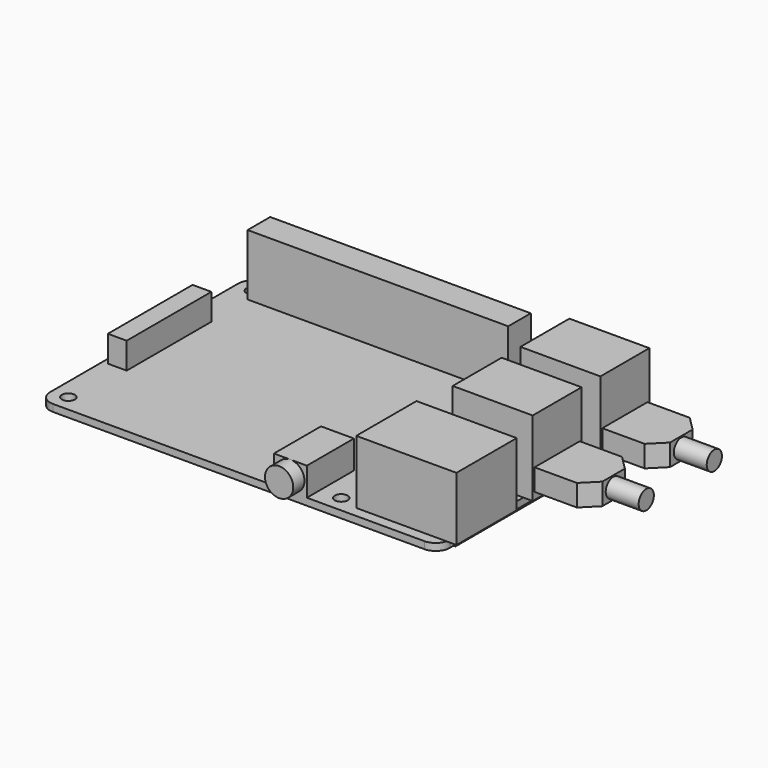
from build123d import *

# Parameters (mm, degrees)
PAD_DEPTH    = 1.5
SKETCH001_R  = 1.375
POCKET_DEPTH = 1.501
SKETCH002_W  = 17
SKETCH002_H  = 13
PAD001_DEPTH = 16
SKETCH003_W  = 21.3
SKETCH003_H  = 16
PAD002_DEPTH = 13.5
SKETCH004_W  = 81
SKETCH004_H  = 42
PAD003_DEPTH = 2
SKETCH005_W  = 55.4
SKETCH005_H  = 6
PAD004_DEPTH = 13
SKETCH006_W  = 7
SKETCH006_H  = 12.5
PAD005_DEPTH = 6
SKETCH007_R  = 3
PAD006_DEPTH = 3
SKETCH008_W  = 4
SKETCH008_H  = 22.5
PAD007_DEPTH = 5.6
SKETCH009_W  = 12
SKETCH009_H  = 4.6
PAD008_DEPTH = 12
CHAMFER_SIZE = 3
SKETCH010_R  = 2.017401
PAD009_DEPTH = 7


with BuildPart() as part:
    # Sketch → Pad (new body)
    with BuildSketch(Plane.XY):
        with BuildLine():
            Line((-39.5, 28), (39.5, 28))
            ThreePointArc((42.5, 25), (41.62132, 27.12132), (39.5, 28))
            Line((42.5, 25), (42.5, -25))
            ThreePointArc((39.5, -28), (41.62132, -27.12132), (42.5, -25))
            Line((39.5, -28), (-39.5, -28))
            ThreePointArc((-42.5, -25), (-41.62132, -27.12132), (-39.5, -28))
            Line((-42.5, -25), (-42.5, 25))
            ThreePointArc((-39.5, 28), (-41.62132, 27.12132), (-42.5, 25))
        make_face()
    extrude(amount=-PAD_DEPTH)

    # Sketch001 (on Face9 of Pad) → Pocket (cut, through all)
    with BuildSketch(Plane.XY):
        with Locations((-39, 24.5)):
            Circle(SKETCH001_R)
        with Locations((19, 24.5)):
            Circle(SKETCH001_R)
        with Locations((19, -24.5)):
            Circle(SKETCH001_R)
        with Locations((-39, -24.5)):
            Circle(SKETCH001_R)
    extrude(amount=-POCKET_DEPTH, mode=Mode.SUBTRACT)

    # Sketch002 (on Face4 of Pocket) → Pad001 (join)
    with BuildSketch(Plane.XY):
        with Locations((36, 19)):
            Rectangle(SKETCH002_W, SKETCH002_H)
        with Locations((36, 1)):
            Rectangle(SKETCH002_W, SKETCH002_H)
    extrude(amount=PAD001_DEPTH)

    # Sketch003 (on Face4 of Pad001) → Pad002 (join)
    with BuildSketch(Plane.XY):
        with Locations((33.85, -17.75)):
            Rectangle(SKETCH003_W, SKETCH003_H)
    extrude(amount=PAD002_DEPTH)

    # Sketch004 (on Face5 of Pad002) → Pad003 (join)
    with BuildSketch(Plane(origin=(0, 0, -1.5), x_dir=(1, 0, 0), z_dir=(0, 0, -1))):
        Rectangle(SKETCH004_W, SKETCH004_H)
    extrude(amount=PAD003_DEPTH)

    # Sketch005 (on Face4 of Pad003) → Pad004 (join)
    with BuildSketch(Plane.XY):
        with Locations((-10, 24.5)):
            Rectangle(SKETCH005_W, SKETCH005_H)
    extrude(amount=PAD004_DEPTH)

    # Sketch006 (on Face4 of Pad004) → Pad005 (join)
    with BuildSketch(Plane.XY):
        with Locations((11, -21.75)):
            Rectangle(SKETCH006_W, SKETCH006_H)
    extrude(amount=PAD005_DEPTH)

    # Sketch007 (on Face35 of Pad005) → Pad006 (join)
    with BuildSketch(Plane.XZ.offset(28)):
        with Locations((11, 3)):
            Circle(SKETCH007_R)
    extrude(amount=PAD006_DEPTH)

    # Sketch008 (on Face4 of Pad006) → Pad007 (join)
    with BuildSketch(Plane.XY):
        with Locations((-39.4, 0.25)):
            Rectangle(SKETCH008_W, SKETCH008_H)
    extrude(amount=PAD007_DEPTH)

    # Sketch009 (on Face50 of Pad007) → Pad008 (join)
    with BuildSketch(Plane.YZ.offset(44.5)):
        with Locations((1, 3.8)):
            Rectangle(SKETCH009_W, SKETCH009_H)
        with Locations((19, 3.8)):
            Rectangle(SKETCH009_W, SKETCH009_H)
    extrude(amount=PAD008_DEPTH)

    # Chamfer
    chamfer_edges = [part.edges().sort_by_distance(p)[0] for p in [
        (56.5, 13, 3.8),
        (14, -29.5, 3),
        (56.5, 7, 3.8),
        (56.5, -5, 3.8),
        (56.5, 25, 3.8),
    ]]
    chamfer(chamfer_edges, length=CHAMFER_SIZE)

    # Sketch010 (on Face8 of Chamfer) → Pad009 (join)
    with BuildSketch(Plane.YZ.offset(56.5)):
        with Locations((0.930018, 3.811911)):
            Circle(SKETCH010_R)
        with Locations((19.019375, 3.811911)):
            Circle(SKETCH010_R)
    extrude(amount=PAD009_DEPTH)


solid = part.part
